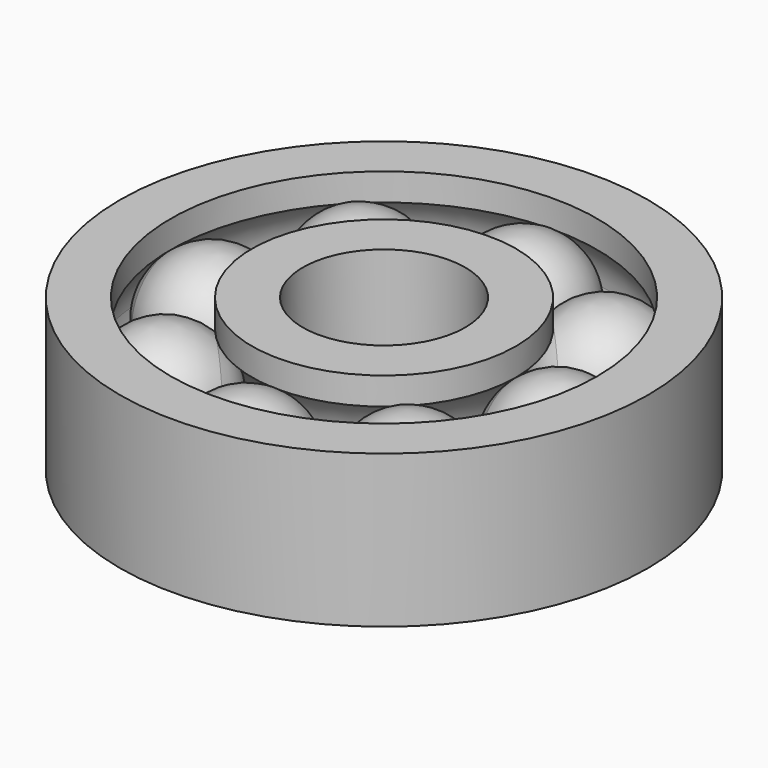
from build123d import *

# Parameters (mm, degrees)
F4_COUNT = 8


with BuildPart() as f1:
    # F0 (on Front) → F1 (revolve)
    with BuildSketch(Plane.XZ):
        with BuildLine():
            Line((21.5, 0), (46.5, 0))
            ThreePointArc((46.5, 0), (45.3192314227, 5.3033008589), (42, 9.6046863561))
            ThreePointArc((42, 9.6046863561), (34, 12.5), (26, 9.6046863561))
            ThreePointArc((26, 9.6046863561), (22.6807685773, 5.3033008589), (21.5, 0))
        make_face()
    revolve(axis=Axis((34, 0, 0), (1, 0, 0)))


with BuildPart() as f2:
    # F0 (on Front) → F2 (revolve)
    with BuildSketch(Plane.XZ):
        with BuildLine():
            ThreePointArc((26, -9.6046863561), (22.6807685773, -5.3033008589), (21.5, 0))
            Line((21.5, 0), (16, 0))
            Line((16, 0), (16, -15))
            Line((16, -15), (26, -15))
            Line((26, -15), (26, -9.6046863561))
        make_face()
        with BuildLine():
            Line((16, 0), (21.5, 0))
            ThreePointArc((21.5, 0), (22.6807685773, 5.3033008589), (26, 9.6046863561))
            Line((26, 9.6046863561), (26, 15))
            Line((26, 15), (16, 15))
            Line((16, 15), (16, 0))
        make_face()
    revolve(axis=Axis((0, 0, 1.593048588), (0, 0, -1)))


with BuildPart() as f3:
    # F0 (on Front) → F3 (revolve)
    with BuildSketch(Plane.XZ):
        with BuildLine():
            ThreePointArc((42, 9.6046863561), (45.3192314227, 5.3033008589), (46.5, 0))
            Line((46.5, 0), (52, 0))
            Line((52, 0), (52, 15))
            Line((52, 15), (42, 15))
            Line((42, 15), (42, 9.6046863561))
        make_face()
        with BuildLine():
            Line((52, 0), (46.5, 0))
            ThreePointArc((46.5, 0), (45.3192314227, -5.3033008589), (42, -9.6046863561))
            Line((42, -9.6046863561), (42, -15))
            Line((42, -15), (52, -15))
            Line((52, -15), (52, 0))
        make_face()
    revolve(axis=Axis((0, 0, 1.593048588), (0, 0, -1)))


with BuildPart() as f4_1:
    # F4: instance of F1
    add(f1.part.rotate(Axis((0, 0, 1.593048588), (0, 0, -1)), 1 * 360 / F4_COUNT))


with BuildPart() as f4_2:
    # F4: instance of F1
    add(f1.part.rotate(Axis((0, 0, 1.593048588), (0, 0, -1)), 2 * 360 / F4_COUNT))


with BuildPart() as f4_3:
    # F4: instance of F1
    add(f1.part.rotate(Axis((0, 0, 1.593048588), (0, 0, -1)), 3 * 360 / F4_COUNT))


with BuildPart() as f4_4:
    # F4: instance of F1
    add(f1.part.rotate(Axis((0, 0, 1.593048588), (0, 0, -1)), 4 * 360 / F4_COUNT))


with BuildPart() as f4_5:
    # F4: instance of F1
    add(f1.part.rotate(Axis((0, 0, 1.593048588), (0, 0, -1)), 5 * 360 / F4_COUNT))


with BuildPart() as f4_6:
    # F4: instance of F1
    add(f1.part.rotate(Axis((0, 0, 1.593048588), (0, 0, -1)), 6 * 360 / F4_COUNT))


with BuildPart() as f4_7:
    # F4: instance of F1
    add(f1.part.rotate(Axis((0, 0, 1.593048588), (0, 0, -1)), 7 * 360 / F4_COUNT))


solid = Compound([f1.part, f2.part, f3.part, f4_1.part, f4_2.part, f4_3.part, f4_4.part, f4_5.part, f4_6.part, f4_7.part])
